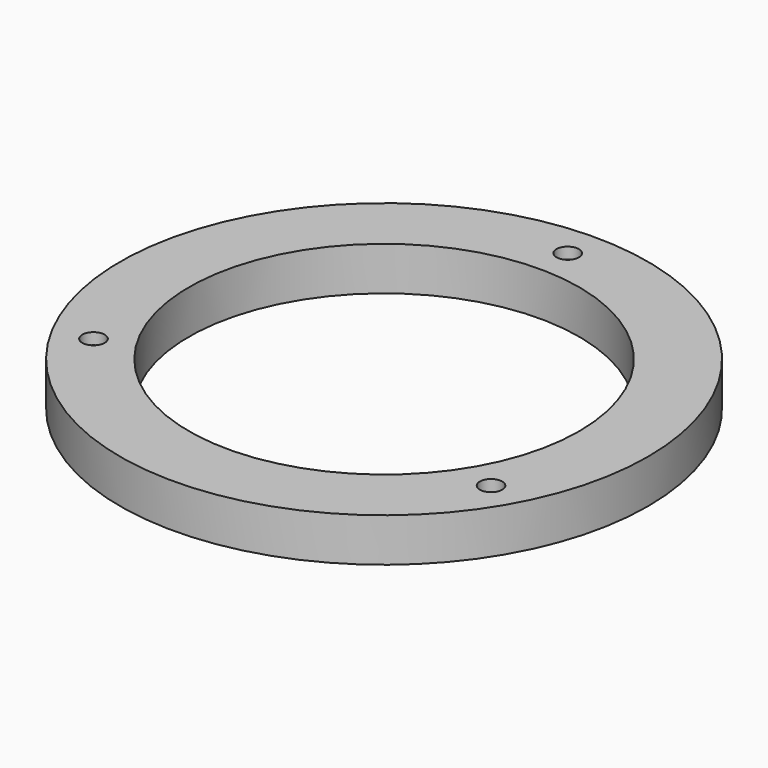
from build123d import *

# Parameters (mm, degrees)
F0_R           = 115
F0_R_2         = 85
F1_DEPTH       = 19
F2_R           = 6
F3_DEPTH       = 2
F5_D           = 5.5
F5_CBORE_D     = 9.75
F5_CBORE_DEPTH = 5


with BuildPart() as f1:
    # F0 (on Top) → F1 (new body)
    with BuildSketch(Plane.XY):
        Circle(F0_R)
        Circle(F0_R_2, mode=Mode.SUBTRACT)
    extrude(amount=F1_DEPTH)

    # F2 (on face) → F3 (cut)
    with BuildSketch(Plane(origin=(0, 0, 0), x_dir=(1, 0, 0), z_dir=(0, 0, -1))):
        with Locations((0, -100)):
            Circle(F2_R)
        with Locations((86.6025403784, 50)):
            Circle(F2_R)
        with Locations((-86.6025403784, 50)):
            Circle(F2_R)
    extrude(amount=-F3_DEPTH, mode=Mode.SUBTRACT)

    # F5 (through all)
    with Locations(Plane.XY.offset(19)):
        with Locations((0, 100), (86.6025403784, -50), (-86.6025403784, -50)):
            CounterBoreHole(F5_D / 2, F5_CBORE_D / 2, F5_CBORE_DEPTH)


solid = f1.part
